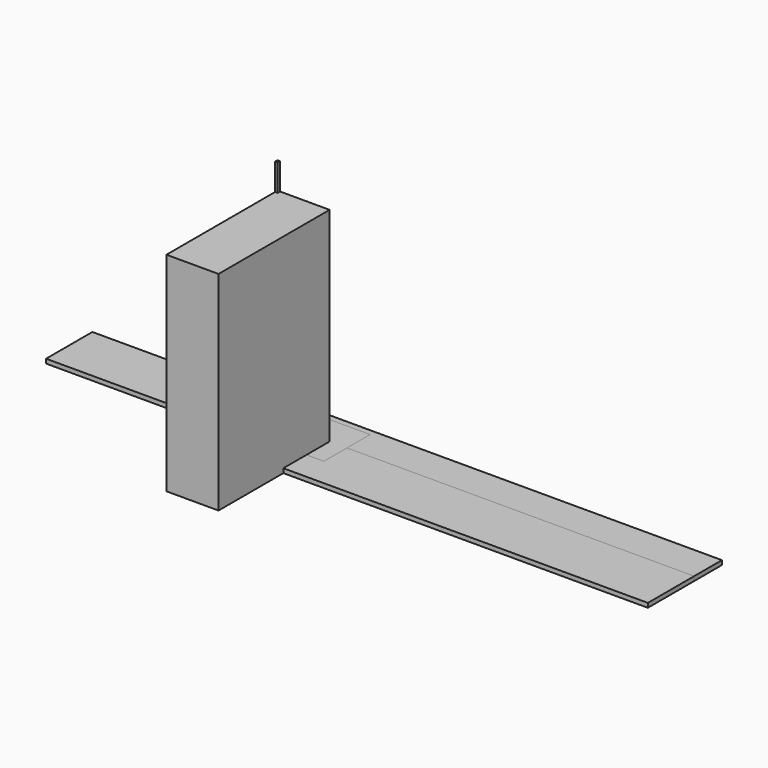
from build123d import *

# Parameters (mm, degrees)
F0_W      = 22.225
F0_H      = 1778
F1_DEPTH  = 25.4
F2_W      = 22.225
F2_H      = 1206.5
F3_DEPTH  = 25.4
F4_W      = 22.225
F4_H      = 2063.75
F5_DEPTH  = 25.4
F6_W      = 3657.6
F6_H      = 508
F7_DEPTH  = 38.1
F8_W      = 3657.6
F8_H      = 304.8
F9_DEPTH  = 38.1
F10_W     = 2438.4
F10_H     = 508
F11_DEPTH = 38.1
F12_W     = 1219.2
F12_H     = 304.8
F13_DEPTH = 25.4
F14_W     = 1219.2
F14_H     = 152.4
F15_DEPTH = 19.05
F16_W     = 1219.2
F16_H     = 1828.8
F17_DEPTH = 457.2
F18_W     = 508
F18_H     = 304.8
F19_DEPTH = 38.1


with BuildPart() as f1:
    # F0 (on Front) → F1 (new body)
    with BuildSketch(Plane.XZ):
        with Locations((11.1125, 889)):
            Rectangle(F0_W, F0_H)
    extrude(amount=F1_DEPTH)


with BuildPart() as f3:
    # F2 (on Front) → F3 (new body)
    with BuildSketch(Plane.XZ):
        with Locations((11.1125, 603.25)):
            Rectangle(F2_W, F2_H)
    extrude(amount=F3_DEPTH)


with BuildPart() as f5:
    # F4 (on Front) → F5 (new body)
    with BuildSketch(Plane.XZ):
        with Locations((11.1125, 1031.875)):
            Rectangle(F4_W, F4_H)
    extrude(amount=F5_DEPTH)


with BuildPart() as f7:
    # F6 (on Top) → F7 (new body)
    with BuildSketch(Plane.XY):
        with Locations((1828.8, -254)):
            Rectangle(F6_W, F6_H)
    extrude(amount=F7_DEPTH)


with BuildPart() as f9:
    # F8 (on Top) → F9 (new body)
    with BuildSketch(Plane.XY):
        with Locations((1828.8, 152.4)):
            Rectangle(F8_W, F8_H)
    extrude(amount=F9_DEPTH)


with BuildPart() as f11:
    # F10 (on Top) → F11 (new body)
    with BuildSketch(Plane.XY):
        with Locations((-609.6, 0)):
            Rectangle(F10_W, F10_H)
    extrude(amount=F11_DEPTH)


with BuildPart() as f13:
    # F12 (on Top) → F13 (new body)
    with BuildSketch(Plane.XY):
        with Locations((-1219.2, 0)):
            Rectangle(F12_W, F12_H)
    extrude(amount=F13_DEPTH)


with BuildPart() as f15:
    # F14 (on Right) → F15 (new body)
    with BuildSketch(Plane.YZ):
        with Locations((-609.6, 76.2)):
            Rectangle(F14_W, F14_H)
    extrude(amount=F15_DEPTH)


with BuildPart() as f17:
    # F16 (on Right) → F17 (new body)
    with BuildSketch(Plane.YZ):
        with Locations((-609.6, 914.4)):
            Rectangle(F16_W, F16_H)
    extrude(amount=F17_DEPTH)


with BuildPart() as f19:
    # F18 (on Top) → F19 (new body)
    with BuildSketch(Plane.XY):
        with Locations((-254, 152.4)):
            Rectangle(F18_W, F18_H)
    extrude(amount=F19_DEPTH)


solid = Compound([f1.part, f3.part, f5.part, f7.part, f9.part, f11.part, f13.part, f15.part, f17.part, f19.part])
